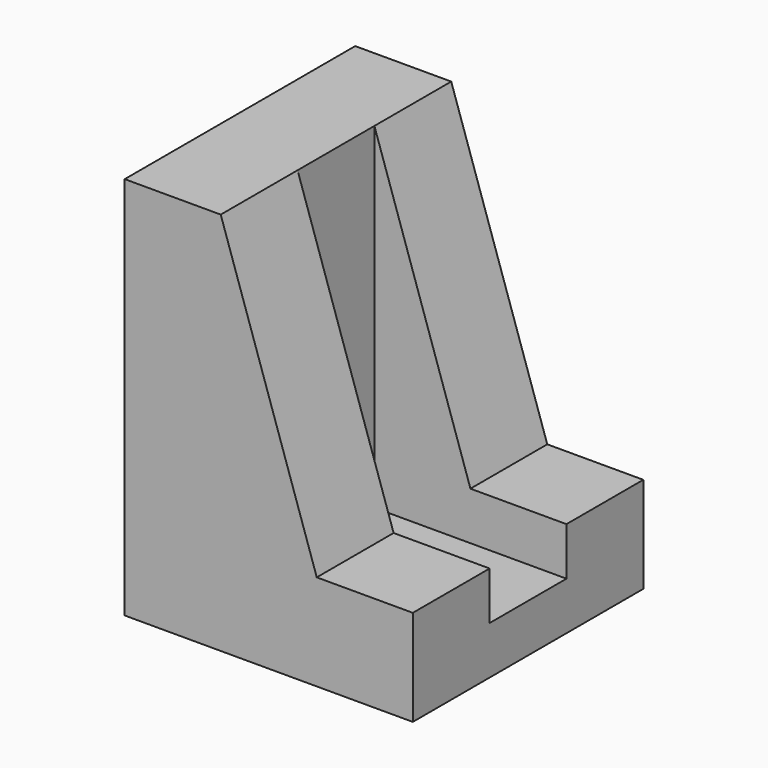
from build123d import *

# Parameters (mm, degrees)
F1_DEPTH = 76.2
F2_W     = 50.8
F2_H     = 25.4
F3_DEPTH = 88.9


with BuildPart() as f1:
    # F0 (on Front) → F1 (new body)
    with BuildSketch(Plane.XZ):
        Polygon((0, 101.6), (0, 0), (76.2, 0), (76.2, 25.4), (50.8, 25.4), (25.4, 101.6), align=None)
    extrude(amount=F1_DEPTH)

    # F2 (on face) → F3 (cut)
    with BuildSketch(Plane.XY.offset(101.6)):
        with Locations((50.8, -38.1)):
            Rectangle(F2_W, F2_H)
    extrude(amount=-F3_DEPTH, mode=Mode.SUBTRACT)


solid = f1.part
